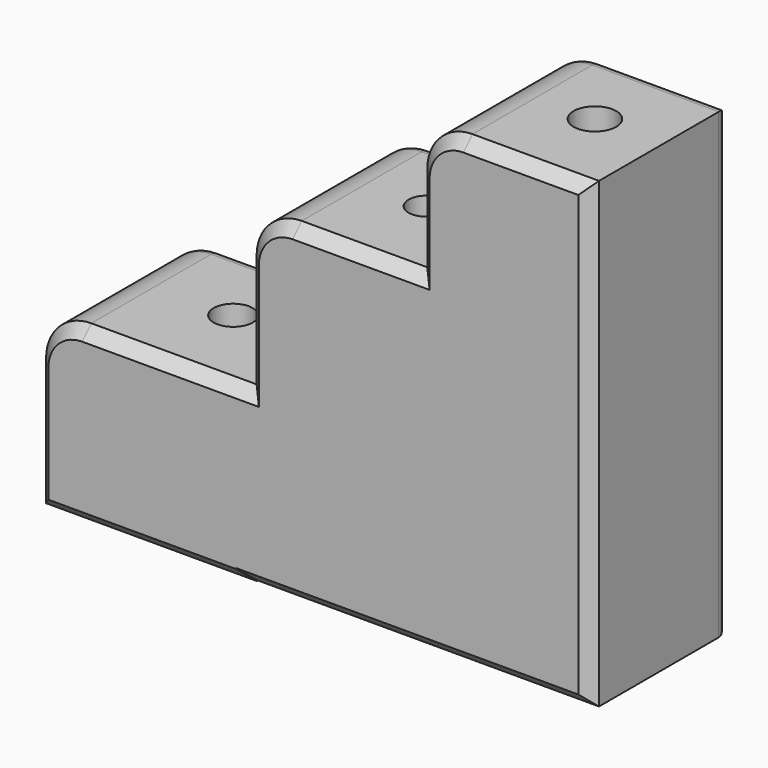
from build123d import *

# Parameters (mm, degrees)
F0_W     = 75.3582566977
F0_H     = 34.1903194785
F0_W_2   = 75.8234262466
F0_H_2   = 70.0087472796
F0_H_3   = 58.2362934947
F1_DEPTH = 76.2
F2_DEPTH = 30
F3_R     = 20
F4_SIZE  = 5.08
F5_R     = 5.08
F6_R     = 8.6494969127
F6_R_2   = 7.8863164194
F6_R_3   = 9.4186807379
F7_DEPTH = 204.6777398715


with BuildPart() as f1:
    # F0 (on Front) → F1 (new body)
    with BuildSketch(Plane.XZ):
        Polygon((-75.3582566977, -34.1903194785), (-75.3582566977, -76.0560184717), (75.8234262466, -76.0560184717), (75.8234262466, -34.1903194785), (0, -34.1903194785), align=None)
        Polygon((-75.3582566977, -76.4316990972), (-75.3582566977, -76.0560184717), (-75.3582566977, -34.1903194785), (-75.3582566977, 0), (-168.3024764061, 0), (-168.3024764061, -76.4316990972), align=None)
        with Locations((-37.6791283488, -17.0951597393)):
            Rectangle(F0_W, F0_H)
        with Locations((37.9117131233, -17.0951597393)):
            Rectangle(F0_W_2, F0_H)
        with Locations((-37.6791283488, 35.0043736398)):
            Rectangle(F0_W, F0_H_2)
        with Locations((37.9117131233, 35.0043736398)):
            Rectangle(F0_W_2, F0_H_2)
        with Locations((37.9117131233, 99.126894027)):
            Rectangle(F0_W_2, F0_H_3)
    extrude(amount=F1_DEPTH)

    # F0 (on Front) → F2 (join)
    with BuildSketch(Plane.XZ):
        Polygon((-75.3582566977, -34.1903194785), (-75.3582566977, -76.0560184717), (75.8234262466, -76.0560184717), (75.8234262466, -34.1903194785), (0, -34.1903194785), align=None)
        Polygon((-75.3582566977, -76.4316990972), (-75.3582566977, -76.0560184717), (-75.3582566977, -34.1903194785), (-75.3582566977, 0), (-168.3024764061, 0), (-168.3024764061, -76.4316990972), align=None)
        with Locations((-37.6791283488, -17.0951597393)):
            Rectangle(F0_W, F0_H)
        with Locations((37.9117131233, -17.0951597393)):
            Rectangle(F0_W_2, F0_H)
        with Locations((-37.6791283488, 35.0043736398)):
            Rectangle(F0_W, F0_H_2)
        with Locations((37.9117131233, 35.0043736398)):
            Rectangle(F0_W_2, F0_H_2)
        with Locations((37.9117131233, 99.126894027)):
            Rectangle(F0_W_2, F0_H_3)
    extrude(amount=F2_DEPTH)

    # F3
    f3_edges = [f1.edges().sort_by_distance(p)[0] for p in [
        (0, -38.1, 128.245041),
        (-75.358257, -38.1, 70.008747),
        (-168.302476, -38.1, 0),
    ]]
    fillet(f3_edges, radius=F3_R)

    # F4
    f4_edges = [f1.edges().sort_by_distance(p)[0] for p in [
        (47.911713, -76.2, 128.245041),
        (5.857864, -76.2, 122.387176),
        (75.823426, -76.2, 26.094511),
        (0, -76.2, 89.126894),
        (0.232585, -76.2, -76.056018),
        (-27.679128, -76.2, 70.008747),
        (-75.358257, -76.2, -76.243859),
        (-69.500392, -76.2, 64.150883),
        (-121.830367, -76.2, -76.431699),
        (-75.358257, -76.2, 25.004374),
        (-168.302476, -76.2, -48.21585),
        (-111.830367, -76.2, 0),
        (-162.444612, -76.2, -5.857864),
    ]]
    chamfer(f4_edges, length=F4_SIZE)

    # F5
    f5_edges = [f1.edges().sort_by_distance(p)[0] for p in [
        (47.911713, 0, 128.245041),
        (5.857864, 0, 122.387176),
        (75.823426, 0, 26.094511),
        (0, 0, 89.126894),
        (0.232585, 0, -76.056018),
        (-27.679128, 0, 70.008747),
        (-75.358257, 0, -76.243859),
        (-69.500392, 0, 64.150883),
        (-121.830367, 0, -76.431699),
        (-75.358257, 0, 25.004374),
        (-168.302476, 0, -48.21585),
        (-111.830367, 0, 0),
        (-162.444612, 0, -5.857864),
    ]]
    fillet(f5_edges, radius=F5_R)

    # F6 (on face) → F7 (cut, through all)
    with BuildSketch(Plane.XY.offset(128.2450407743)):
        with Locations((-113.8509809971, -35.9056405723)):
            Circle(F6_R)
        with Locations((-28.7020821124, -35.6748849154)):
            Circle(F6_R_2)
        with Locations((45.8320491016, -35.9056405723)):
            Circle(F6_R_3)
    extrude(amount=-F7_DEPTH, mode=Mode.SUBTRACT)


solid = f1.part
